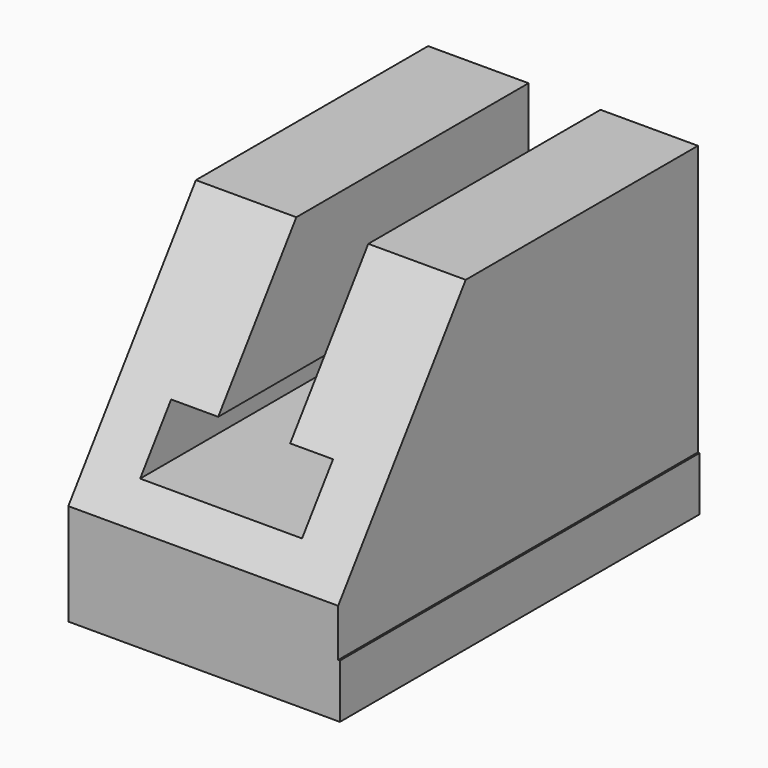
from build123d import *

# Parameters (mm, degrees)
F1_DEPTH = 25
F3_DEPTH = 18.7
F5_DEPTH = 3
F6_R     = 2
F7_DEPTH = 25


with BuildPart() as f1:
    # F0 (on Front) → F1 (new body)
    with BuildSketch(Plane.XZ):
        Polygon((-2.070283, 12.724239), (-7.654176, 12.724239), (-7.654176, -2.275761), (7.345824, -2.275761), (7.345824, 12.724239), (1.929717, 12.724239), (1.929717, 5.163504), (4.312236, 5.163504), (4.312236, 2.163504), (-4.687764, 2.163504), (-4.687764, 5.163504), (-2.070283, 5.163504), align=None)
        Polygon((7.345824, -2.275761), (-7.654176, -2.275761), (-7.654176, -5.275761), (7.44284, -5.275761), (7.44284, -2.275761), align=None)
    extrude(amount=F1_DEPTH)

    # F2 (on Right) → F3 (cut, symmetric)
    with BuildSketch(Plane.YZ):
        Polygon((-30.076236, 15.53787), (-27.17446, -2.654033), (-14.116468, 15.53787), align=None)
    extrude(amount=F3_DEPTH, both=True, mode=Mode.SUBTRACT)

    # F4 (on Top) → F5 (cut)
    with BuildSketch(Plane.XY):
        Polygon((3.278356, -9.464068), (2.653948, -6.020216), (-0.640718, -4.839043), (-3.310978, -7.101722), (-2.68657, -10.545573), (0.608097, -11.726746), align=None)
    extrude(amount=F5_DEPTH, mode=Mode.SUBTRACT)

    # F6 (on face) → F7 (cut)
    with BuildSketch(Plane.XY):
        with Locations((0, -8.177196)):
            Circle(F6_R)
    extrude(amount=-F7_DEPTH, mode=Mode.SUBTRACT)


solid = f1.part
